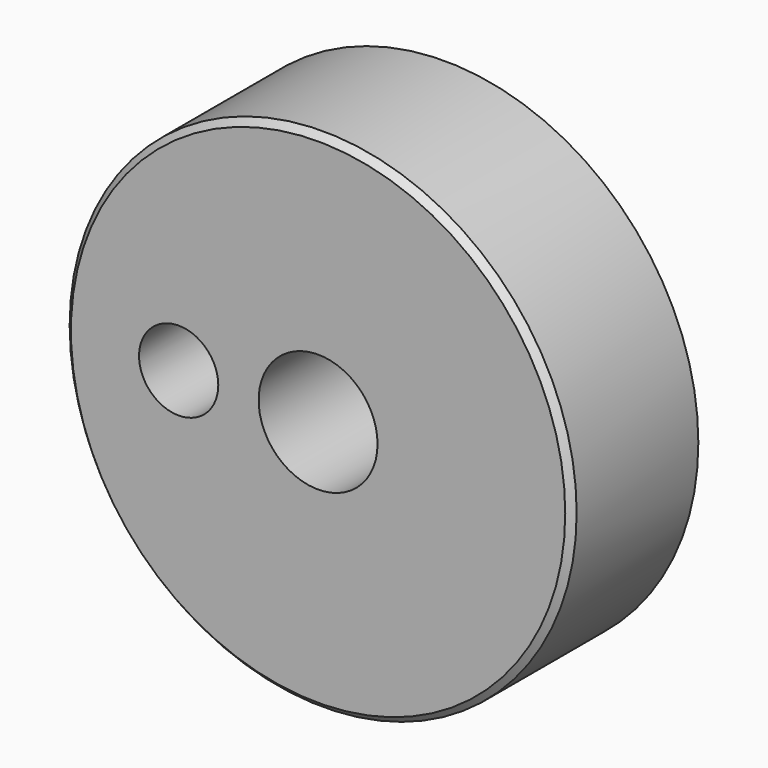
from build123d import *

# Parameters (mm, degrees)
F0_R          = 5.08
F0_R_2        = 1.19126
F1_DEPTH      = 3.175
F2_SIZE       = 0.127
F3_R          = 0.79375
F4_DEPTH      = 25.4
F4_DEPTH_BACK = 25.4


with BuildPart() as f1:
    # F0 (on Front) → F1 (new body)
    with BuildSketch(Plane.XZ):
        Circle(F0_R)
        Circle(F0_R_2, mode=Mode.SUBTRACT)
    extrude(amount=F1_DEPTH)

    # F2
    f2_edges = [f1.edges().sort_by_distance(p)[0] for p in [
        (-5.08, -3.175, 0),
    ]]
    chamfer(f2_edges, length=F2_SIZE)

    # F3 (on Front) → F4 (cut, two sides)
    with BuildSketch(Plane.XZ) as f4_sk:
        with Locations((-2.794, 0)):
            Circle(F3_R)
    extrude(amount=-F4_DEPTH, mode=Mode.SUBTRACT)
    extrude(f4_sk.sketch, amount=F4_DEPTH_BACK, mode=Mode.SUBTRACT)


solid = f1.part
